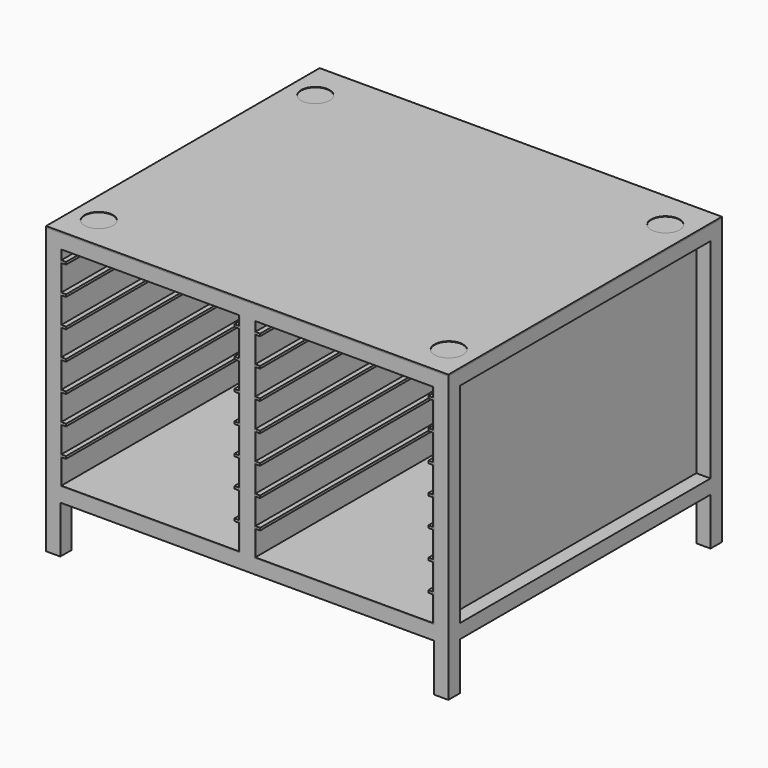
from build123d import *

# Parameters (mm, degrees)
F0_W           = 30
F0_H           = 30
F1_DEPTH       = 600
F2_W           = 30
F2_H           = 30
F3_DEPTH       = 393.5
F3_DEPTH_BACK  = 393.5
F4_W           = 30
F4_H           = 30
F5_DEPTH       = 330
F5_DEPTH_BACK  = 330
F6_W           = 847
F6_H           = 720
F7_DEPTH       = 3
F9_W           = 30
F9_H           = 30
F10_DEPTH      = 270
F10_DEPTH_BACK = 170
F11_W          = 374.5
F11_H          = 2
F12_DEPTH      = 720
F13_W          = 10
F13_H          = 5
F14_DEPTH      = 720
F15_R          = 30
F16_DEPTH      = 1


with BuildPart() as f1:
    # F0 (on Top) → F1 (new body)
    with BuildSketch(Plane.XY):
        with Locations((408.5, 345)):
            Rectangle(F0_W, F0_H)
        with Locations((408.5, -345)):
            Rectangle(F0_W, F0_H)
        with Locations((-408.5, 345)):
            Rectangle(F0_W, F0_H)
        with Locations((-408.5, -345)):
            Rectangle(F0_W, F0_H)
    extrude(amount=F1_DEPTH)

    # F2 (on Right) → F3 (join, two sides)
    with BuildSketch(Plane.YZ) as f3_sk:
        with Locations((345, 585)):
            Rectangle(F2_W, F2_H)
        with Locations((-345, 585)):
            Rectangle(F2_W, F2_H)
        with Locations((345, 115)):
            Rectangle(F2_W, F2_H)
        with Locations((-345, 115)):
            Rectangle(F2_W, F2_H)
    extrude(amount=F3_DEPTH)
    extrude(f3_sk.sketch, amount=-F3_DEPTH_BACK)

    # F4 (on Front) → F5 (join, two sides)
    with BuildSketch(Plane.XZ) as f5_sk:
        with Locations((408.5, 115)):
            Rectangle(F4_W, F4_H)
        with Locations((-408.5, 115)):
            Rectangle(F4_W, F4_H)
        with Locations((-408.5, 585)):
            Rectangle(F4_W, F4_H)
        with Locations((408.5, 585)):
            Rectangle(F4_W, F4_H)
        with Locations((0, 115)):
            Rectangle(F4_W, F4_H)
        with Locations((0, 585)):
            Rectangle(F4_W, F4_H)
    extrude(amount=F5_DEPTH)
    extrude(f5_sk.sketch, amount=-F5_DEPTH_BACK)

    # F9 (on offset) → F10 (join, two sides)
    with BuildSketch(Plane.XY.offset(300)) as f10_sk:
        with Locations((0, 345)):
            Rectangle(F9_W, F9_H)
        with Locations((0, -345)):
            Rectangle(F9_W, F9_H)
    extrude(amount=F10_DEPTH)
    extrude(f10_sk.sketch, amount=-F10_DEPTH_BACK)


with BuildPart() as f7:
    # F6 (on face) → F7 (new body)
    with BuildSketch(Plane.XY.offset(600)):
        Rectangle(F6_W, F6_H)
    extrude(amount=F7_DEPTH)

    # F15 (on face) → F16 (cut)
    with BuildSketch(Plane.XY.offset(603)):
        with Locations((-368.5, 280)):
            Circle(F15_R)
        with Locations((368.5, 280)):
            Circle(F15_R)
        with Locations((368.5, -290)):
            Circle(F15_R)
        with Locations((-368.5, -290)):
            Circle(F15_R)
    extrude(amount=-F16_DEPTH, mode=Mode.SUBTRACT)


with BuildPart() as f12:
    # F11 (on face) → F12 (new body)
    with BuildSketch(Plane.XZ.offset(360)):
        Polygon((-391.5, 570), (-393.5, 570), (-393.5, 130), (-391.5, 130), (-391.5, 132), align=None)
        with Locations((-204.25, 131)):
            Rectangle(F11_W, F11_H)
        Polygon((-17, 570), (-17, 132), (-17, 130), (-15, 130), (-15, 570), align=None)
        Polygon((17, 570), (15, 570), (15, 130), (17, 130), (17, 132), align=None)
        with Locations((204.25, 131)):
            Rectangle(F11_W, F11_H)
        Polygon((391.5, 570), (391.5, 132), (391.5, 130), (393.5, 130), (393.5, 570), align=None)
    extrude(amount=-F12_DEPTH)

    # F13 (on face) → F14 (join)
    with BuildSketch(Plane.XZ.offset(360)):
        with Locations((-386.5, 547.5)):
            Rectangle(F13_W, F13_H)
        with Locations((-386.5, 487.5)):
            Rectangle(F13_W, F13_H)
        with Locations((-386.5, 427.5)):
            Rectangle(F13_W, F13_H)
        with Locations((-386.5, 367.5)):
            Rectangle(F13_W, F13_H)
        with Locations((-386.5, 307.5)):
            Rectangle(F13_W, F13_H)
        with Locations((-386.5, 247.5)):
            Rectangle(F13_W, F13_H)
        with Locations((-386.5, 187.5)):
            Rectangle(F13_W, F13_H)
        with Locations((-22, 547.5)):
            Rectangle(F13_W, F13_H)
        with Locations((-22, 487.5)):
            Rectangle(F13_W, F13_H)
        with Locations((-22, 427.5)):
            Rectangle(F13_W, F13_H)
        with Locations((-22, 367.5)):
            Rectangle(F13_W, F13_H)
        with Locations((-22, 307.5)):
            Rectangle(F13_W, F13_H)
        with Locations((-22, 247.5)):
            Rectangle(F13_W, F13_H)
        with Locations((-22, 187.5)):
            Rectangle(F13_W, F13_H)
        with Locations((386.5, 187.5)):
            Rectangle(F13_W, F13_H)
        with Locations((22, 547.5)):
            Rectangle(F13_W, F13_H)
        with Locations((386.5, 547.5)):
            Rectangle(F13_W, F13_H)
        with Locations((22, 187.5)):
            Rectangle(F13_W, F13_H)
        with Locations((386.5, 487.5)):
            Rectangle(F13_W, F13_H)
        with Locations((22, 487.5)):
            Rectangle(F13_W, F13_H)
        with Locations((22, 247.5)):
            Rectangle(F13_W, F13_H)
        with Locations((22, 367.5)):
            Rectangle(F13_W, F13_H)
        with Locations((22, 307.5)):
            Rectangle(F13_W, F13_H)
        with Locations((386.5, 307.5)):
            Rectangle(F13_W, F13_H)
        with Locations((386.5, 247.5)):
            Rectangle(F13_W, F13_H)
        with Locations((22, 427.5)):
            Rectangle(F13_W, F13_H)
        with Locations((386.5, 367.5)):
            Rectangle(F13_W, F13_H)
        with Locations((386.5, 427.5)):
            Rectangle(F13_W, F13_H)
    extrude(amount=-F14_DEPTH)


solid = Compound([f1.part, f7.part, f12.part])
